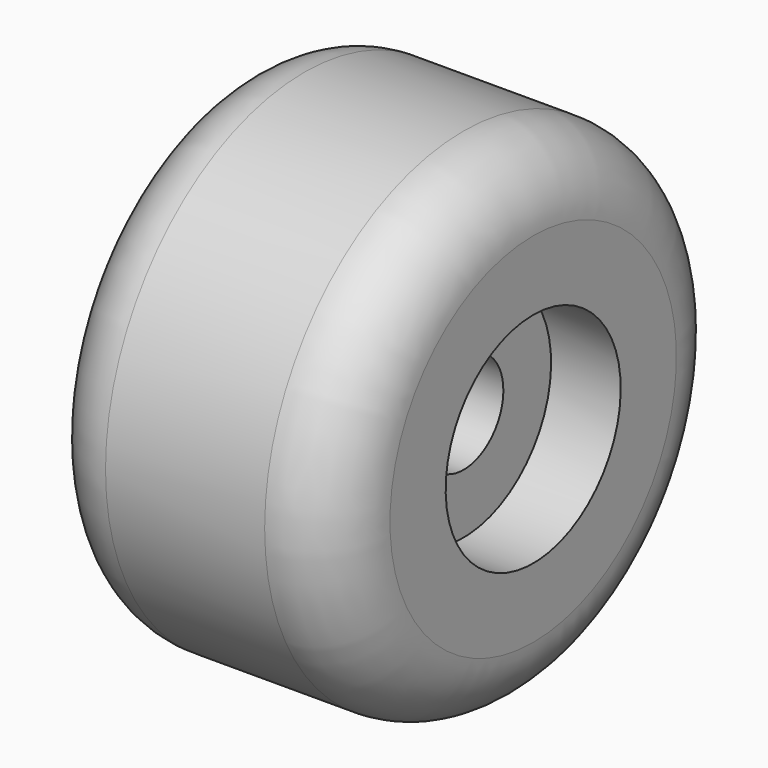
from build123d import *


with BuildPart() as f1:
    # F0 (on Front) → F1 (revolve)
    with BuildSketch(Plane.XZ):
        with BuildLine():
            Line((-15, 11), (-8, 11))
            Line((-8, 11), (-8, 5))
            Line((-8, 5), (0, 5))
            Line((0, 5), (8, 5))
            Line((8, 5), (8, 11))
            Line((8, 11), (15, 11))
            Line((15, 11), (15, 18))
            ThreePointArc((15, 18), (12.949747, 22.949747), (8, 25))
            Line((8, 25), (0, 25))
            Line((0, 25), (-8, 25))
            ThreePointArc((-8, 25), (-12.949747, 22.949747), (-15, 18))
            Line((-15, 18), (-15, 11))
        make_face()
    revolve(axis=Axis((-7.656248, 0, 0), (-1, 0, 0)))


solid = f1.part
